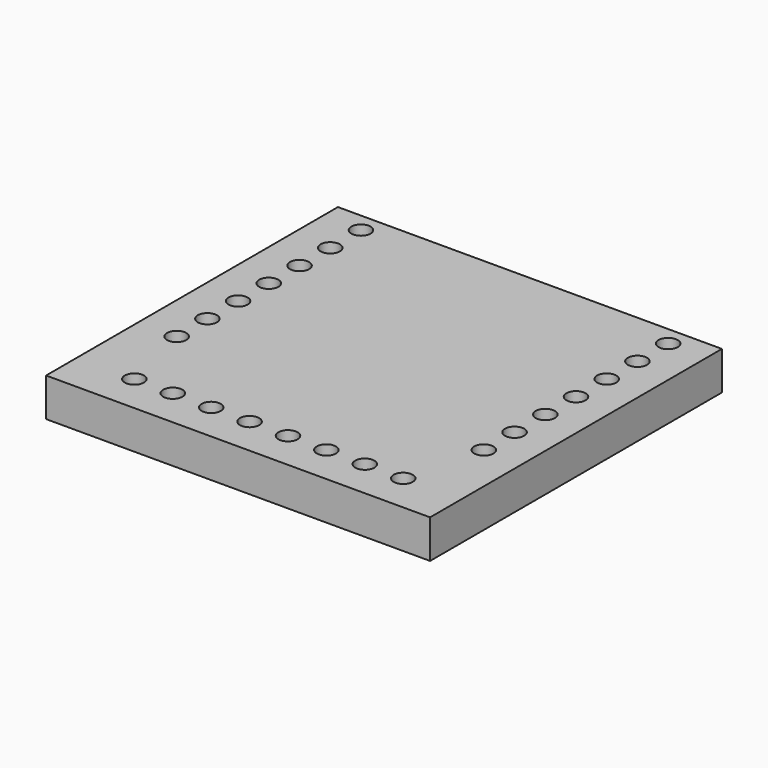
from build123d import *

# Parameters (mm, degrees)
SKETCH_W               = 20
SKETCH_H               = 19
PAD_DEPTH              = 2
SKETCH001_R            = 0.5
POCKET_DEPTH           = 5
LINEARPATTERN_COUNT    = 7
LINEARPATTERN_PITCH    = 2
SKETCH002_R            = 0.5
POCKET001_DEPTH        = 5
LINEARPATTERN001_COUNT = 8
LINEARPATTERN001_PITCH = 2


with BuildPart() as part:
    # Sketch → Pad (new body)
    with BuildSketch(Plane.XY):
        Rectangle(SKETCH_W, SKETCH_H)
    extrude(amount=PAD_DEPTH)

    # Sketch001 (on Face6 of Pad) → Pocket (cut)
    with BuildSketch(Plane.XY.offset(2)):
        with Locations((-8, 8.5)):
            Circle(SKETCH001_R)
        with Locations((8, 8.5)):
            Circle(SKETCH001_R)
    pocket = extrude(amount=-POCKET_DEPTH, mode=Mode.SUBTRACT)

    # LinearPattern: Pocket ×7
    with Locations(*[(0, -i * LINEARPATTERN_PITCH, 0) for i in range(1, LINEARPATTERN_COUNT)]):
        add(pocket, mode=Mode.SUBTRACT)

    # Sketch002 (on Face5 of LinearPattern) → Pocket001 (cut)
    with BuildSketch(Plane.XY.offset(2)):
        with Locations((-7, -7.5)):
            Circle(SKETCH002_R)
    pocket001 = extrude(amount=-POCKET001_DEPTH, mode=Mode.SUBTRACT)

    # LinearPattern001: Pocket001 ×8
    with Locations(*[(i * LINEARPATTERN001_PITCH, 0, 0) for i in range(1, LINEARPATTERN001_COUNT)]):
        add(pocket001, mode=Mode.SUBTRACT)


solid = part.part
